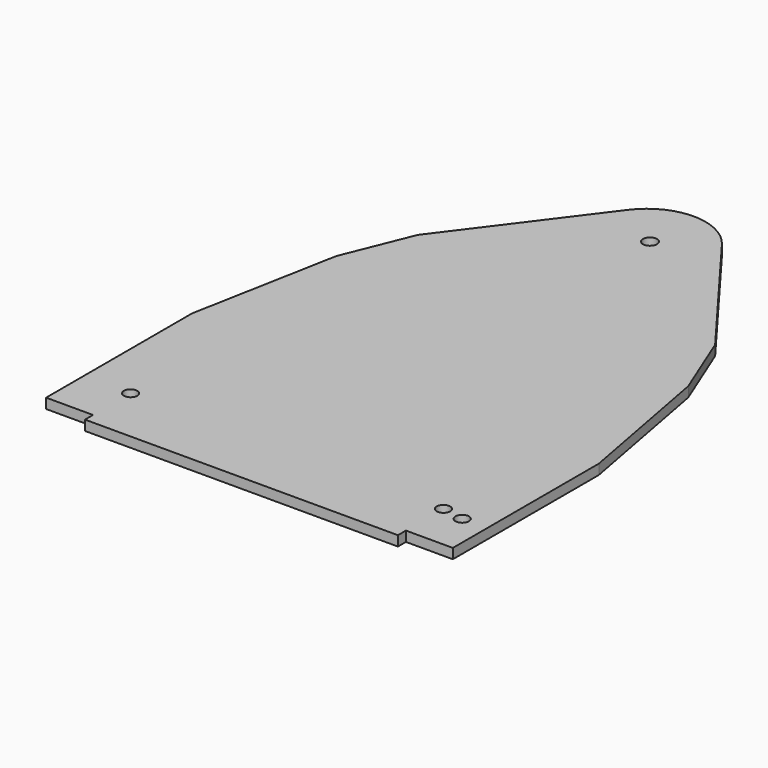
from build123d import *

# Parameters (mm, degrees)
F0_W     = 30
F0_H     = 20
F0_R     = 2.25
F1_DEPTH = 3.2
F2_R     = 2.15
F3_DEPTH = 54
F4_W     = 100
F4_H     = 3.2
F5_DEPTH = 3.2


with BuildPart() as f1:
    # F0 (on Top) → F1 (new body)
    with BuildSketch(Plane.XY):
        Polygon((-65, -75), (65, -75), (65, 75), (30, 75), (15, 75), (-15, 75), (-30, 75), (-65, 75), align=None)
        Polygon((15, 75), (30, 75), (15, 95), align=None)
        Polygon((-15, 95), (-30, 75), (-15, 75), align=None)
        with Locations((0, 85)):
            Rectangle(F0_W, F0_H)
        with Locations((0, 85)):
            Circle(F0_R, mode=Mode.SUBTRACT)
        with BuildLine():
            Line((-15, 95), (15, 95))
            ThreePointArc((15, 95), (0, 102.5), (-15, 95))
        make_face()
    extrude(amount=F1_DEPTH)

    # F2 (on Top) → F3 (cut)
    with BuildSketch(Plane.XY):
        with Locations((-50, -60)):
            Circle(F2_R)
        with Locations((50, -60)):
            Circle(F2_R)
        Polygon((-30, 75), (-65, 75), (-65, 28.3333333333), (-47.5, 51.6666666667), align=None)
        Polygon((-47.5, 51.6666666667), (-65, 28.3333333333), (-65, 8.3333333333), (-56.25, 30), align=None)
        Polygon((-56.25, 30), (-65, 8.3333333333), (-65, -16.6666666667), align=None)
        Polygon((65, 8.3333333333), (65, 75), (30, 75), (47.5, 51.6666666667), (56.25, 30), align=None)
        Polygon((65, -16.6666666667), (65, 8.3333333333), (56.25, 30), align=None)
        with Locations((57, -61.25)):
            Circle(F2_R)
    extrude(amount=F3_DEPTH, mode=Mode.SUBTRACT)

    # F4 (on Top) → F5 (join)
    with BuildSketch(Plane.XY):
        with Locations((0, -76.6)):
            Rectangle(F4_W, F4_H)
    extrude(amount=F5_DEPTH)


solid = f1.part
